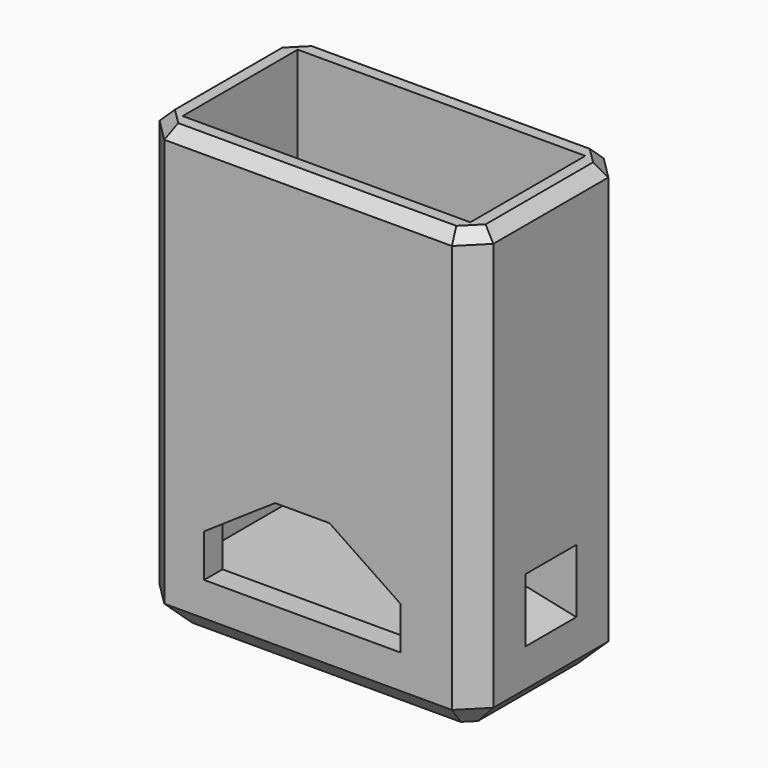
from build123d import *

# Parameters (mm, degrees)
F0_W      = 29
F0_H      = 16.5
F1_DEPTH  = 38.5
F2_T      = -2
F3_DEPTH  = 2.25
F4_SIZE   = 2
F5_SIZE   = 2
F6_SIZE   = 1
F8_DEPTH  = 16.501
F9_W      = 7.54
F9_H      = 7.25
F9_R      = 1.1
F10_DEPTH = 6.35
F13_W     = 5.538
F13_H     = 4.583
F11_W     = 5.538
F11_H     = 5.533


with BuildPart() as f1:
    # F0 (on Top) → F1 (new body)
    with BuildSketch(Plane.XY):
        with Locations((14.5, 8.25)):
            Rectangle(F0_W, F0_H)
    extrude(amount=F1_DEPTH)

    # F2
    f2_openings = [f1.faces().sort_by_distance(p)[0] for p in [
        (14.5, 8.25, 38.5),
    ]]
    offset(amount=F2_T, openings=f2_openings)

    # F3 (add): a face of the model
    f3_faces = [f1.faces().sort_by_distance(p)[0] for p in [
        (14.5, 8.25, 2),
    ]]
    extrude(f3_faces, amount=F3_DEPTH)

    # F4
    f4_edges = [f1.edges().sort_by_distance(p)[0] for p in [
        (29, 0, 19.25),
        (29, 16.5, 19.25),
        (0, 0, 19.25),
        (0, 16.5, 19.25),
    ]]
    chamfer(f4_edges, length=F4_SIZE)

    # F5
    f5_edges = [f1.edges().sort_by_distance(p)[0] for p in [
        (14.5, 0, 0),
        (28, 1, 0),
        (29, 8.25, 0),
        (28, 15.5, 0),
        (14.5, 16.5, 0),
        (1, 15.5, 0),
        (0, 8.25, 0),
        (1, 1, 0),
    ]]
    chamfer(f5_edges, length=F5_SIZE)

    # F6
    f6_edges = [f1.edges().sort_by_distance(p)[0] for p in [
        (0, 8.25, 38.5),
        (1, 1, 38.5),
        (14.5, 0, 38.5),
        (28, 1, 38.5),
        (29, 8.25, 38.5),
        (28, 15.5, 38.5),
        (14.5, 16.5, 38.5),
        (1, 15.5, 38.5),
    ]]
    chamfer(f6_edges, length=F6_SIZE)

    # F7 (on face) → F8 (cut, through all)
    with BuildSketch(Plane(origin=(0, 16.5, 0), x_dir=(-1, 0, 0), z_dir=(0, 1, 0))):
        Polygon((-22.536, 8.664), (-22.536, 4.94), (-5.464, 4.94), (-5.464, 8.664), (-11.635, 12.834), (-16.365, 12.834), align=None)
    extrude(amount=-F8_DEPTH, mode=Mode.SUBTRACT)

    # F9 (on face) → F10 (join)
    with BuildSketch(Plane.YZ.offset(29)):
        with Locations((8.25, 7.875)):
            Rectangle(F9_W, F9_H)
        with Locations((8.25, 9)):
            Circle(F9_R, mode=Mode.SUBTRACT)
    extrude(amount=-F10_DEPTH)

    # F13 (on offset) → F14 section 0
    with BuildSketch(Plane.YZ.offset(24.55)):
        with Locations((8.25, 8.5135)):
            Rectangle(F13_W, F13_H)
    # F11 (on face) → F14 section 1
    with BuildSketch(Plane.YZ.offset(29)):
        with Locations((8.25, 8.0385)):
            Rectangle(F11_W, F11_H)
    loft(mode=Mode.SUBTRACT)


solid = f1.part
